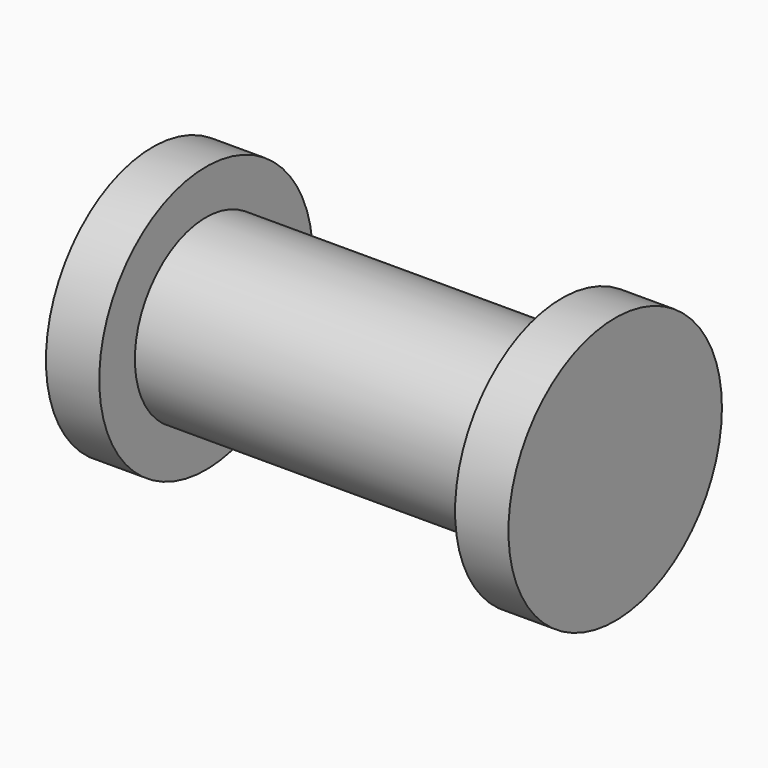
from build123d import *

# Parameters (mm, degrees)
F0_W = 20
F0_H = 5


with BuildPart() as f1:
    # F0 (on Top) → F1 (revolve)
    with BuildSketch(Plane.XY):
        Polygon((-10, 0), (-10, 5), (-10, 7.5), (-13, 7.5), (-13, 0), align=None)
        with Locations((0, 2.5)):
            Rectangle(F0_W, F0_H)
        Polygon((10, 7.5), (10, 5), (10, 0), (13, 0), (13, 7.5), align=None)
    revolve(axis=Axis((0, 0, 0), (1, 0, 0)))


solid = f1.part
